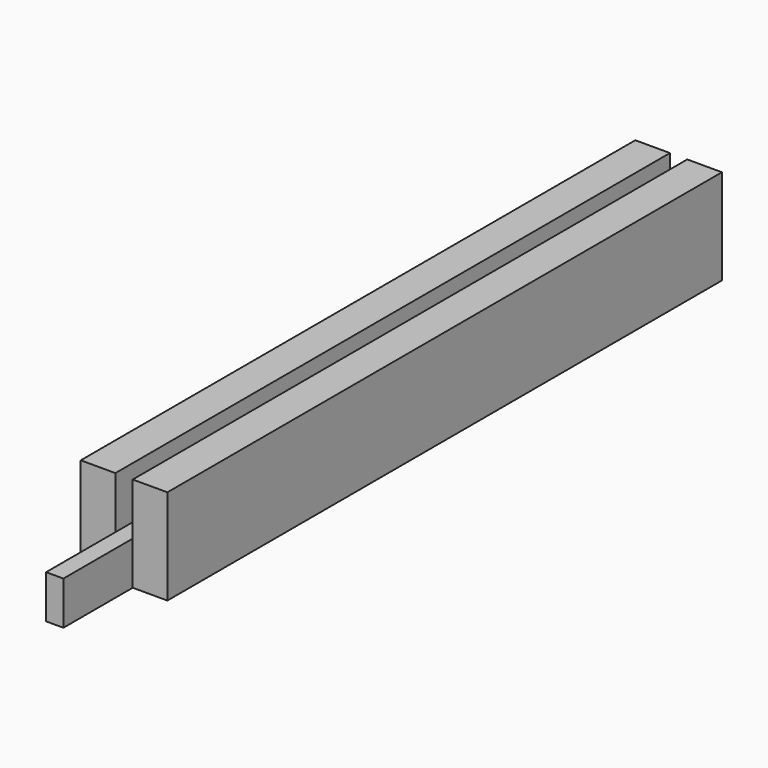
from build123d import *

# Parameters (mm, degrees)
F0_W     = 12.7
F0_H     = 101.6
F1_DEPTH = 6.35
F2_W     = 5.08
F2_H     = 101.6
F3_DEPTH = 7.62
F4_W     = 2.54
F4_H     = 6.35
F5_DEPTH = 12.7
F7_D     = 2.54
F7_DEPTH = 12.7
F7_TIP   = 0.7630929862


with BuildPart() as f1:
    # F0 (on Top) → F1 (new body)
    with BuildSketch(Plane.XY):
        with Locations((-0.7137963548, 38.543052576)):
            Rectangle(F0_W, F0_H)
    extrude(amount=F1_DEPTH)

    # F2 (on face) → F3 (join)
    with BuildSketch(Plane.XY.offset(6.35)):
        with Locations((-4.5237963548, 38.543052576)):
            Rectangle(F2_W, F2_H)
        with Locations((3.0962036452, 38.543052576)):
            Rectangle(F2_W, F2_H)
    extrude(amount=F3_DEPTH)

    # F4 (on face) → F5 (join)
    with BuildSketch(Plane.XZ.offset(12.256947424)):
        with Locations((-0.7137963548, 3.175)):
            Rectangle(F4_W, F4_H)
    extrude(amount=F5_DEPTH)

    # F7
    with Locations(Plane(origin=(0, 89.343052576, 0), x_dir=(-1, 0, 0), z_dir=(0, 1, 0))):
        with Locations((0.7137963548, 3.175)):
            Hole(F7_D / 2, depth=F7_DEPTH)
            with Locations((0, 0, -(F7_DEPTH + F7_TIP / 2))):  # 118° drill point
                Cone(0, F7_D / 2, F7_TIP, mode=Mode.SUBTRACT)


solid = f1.part
